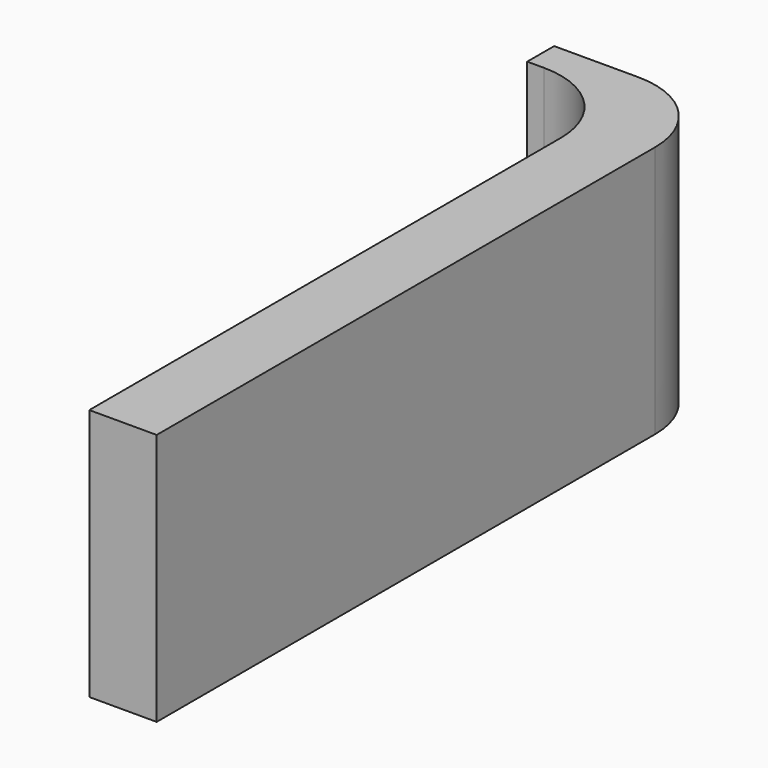
from build123d import *

# Parameters (mm, degrees)
F1_DEPTH = 7.5


with BuildPart() as f1:
    # F0 (on Top) → F1 (new body, symmetric)
    with BuildSketch(Plane.XY):
        with BuildLine():
            Line((-2, -20), (2, -20))
            Line((2, -20), (2, 17))
            ThreePointArc((2, 17), (0.535534, 20.535534), (-3, 22))
            Line((-3, 22), (-8, 22))
            Line((-8, 22), (-8, 20))
            Line((-8, 20), (-7, 20))
            ThreePointArc((-7, 20), (-3.464466, 18.535534), (-2, 15))
            Line((-2, 15), (-2, -20))
        make_face()
    extrude(amount=F1_DEPTH, both=True)


solid = f1.part
